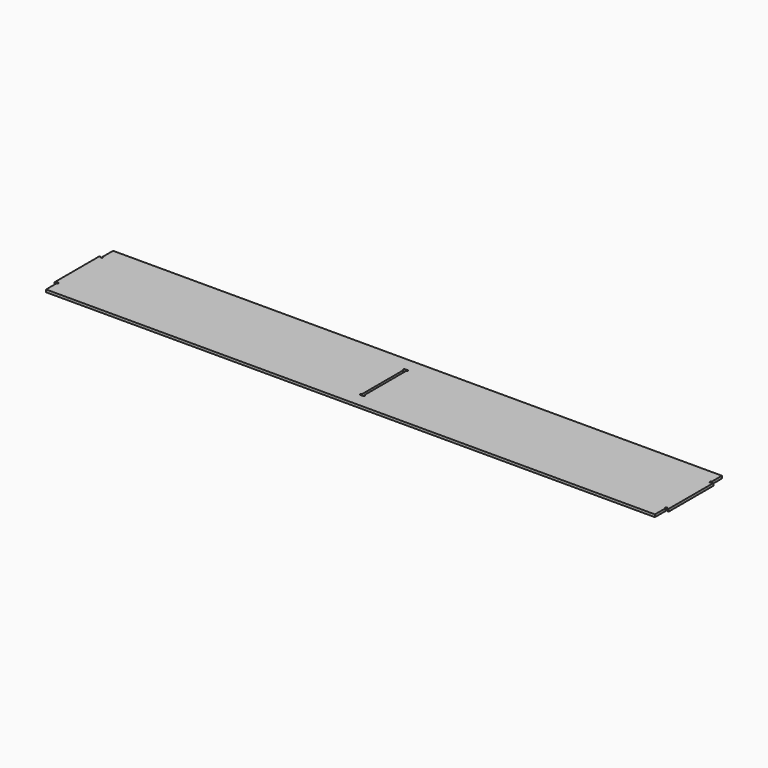
from build123d import *

# Parameters (mm, degrees)
F1_DEPTH = 9


with BuildPart() as f1:
    # F0 (on Top) → F1 (new body)
    with BuildSketch(Plane.XY):
        with BuildLine():
            Line((1090.859627, -105.795628), (-1090.859627, -105.795628))
            Line((-1090.859627, -105.795628), (-1090.859627, -152.295628))
            ThreePointArc((-1090.859627, -152.295628), (-1088.384754, -158.270502), (-1094.359627, -155.795628))
            Line((-1094.359627, -155.795628), (-1099.859627, -155.795628))
            Line((-1099.859627, -155.795628), (-1099.859627, -355.795628))
            Line((-1099.859627, -355.795628), (-1094.359627, -355.795628))
            ThreePointArc((-1094.359627, -355.795628), (-1093.334501, -353.320754), (-1090.859627, -352.295628))
            ThreePointArc((-1090.859627, -352.295628), (-1088.384754, -353.320754), (-1087.359627, -355.795628))
            ThreePointArc((-1087.359627, -355.795628), (-1088.384754, -358.270502), (-1090.859627, -359.295628))
            Line((-1090.859627, -359.295628), (-1090.859627, -405.795628))
            Line((-1090.859627, -405.795628), (1090.859627, -405.795628))
            Line((1090.859627, -405.795628), (1090.859627, -359.295628))
            ThreePointArc((1090.859627, -359.295628), (1088.384754, -358.270502), (1087.359627, -355.795628))
            ThreePointArc((1087.359627, -355.795628), (1088.384754, -353.320754), (1090.859627, -352.295628))
            ThreePointArc((1090.859627, -352.295628), (1093.334501, -353.320754), (1094.359627, -355.795628))
            Line((1094.359627, -355.795628), (1099.859627, -355.795628))
            Line((1099.859627, -355.795628), (1099.859627, -155.795628))
            Line((1099.859627, -155.795628), (1094.359627, -155.795628))
            ThreePointArc((1094.359627, -155.795628), (1088.384754, -158.270502), (1090.859627, -152.295628))
            Line((1090.859627, -152.295628), (1090.859627, -105.795628))
        make_face()
        with BuildLine():
            ThreePointArc((4.5, -155.795628), (8, -159.295628), (4.5, -162.795628))
            Line((4.5, -162.795628), (4.5, -255.795628))
            Line((4.5, -255.795628), (4.5, -348.795628))
            ThreePointArc((4.5, -348.795628), (8, -352.295628), (4.5, -355.795628))
            Line((4.5, -355.795628), (0, -355.795628))
            Line((0, -355.795628), (-4.5, -355.795628))
            ThreePointArc((-4.5, -355.795628), (-8, -352.295628), (-4.5, -348.795628))
            Line((-4.5, -348.795628), (-4.5, -255.795628))
            Line((-4.5, -255.795628), (-4.5, -162.795628))
            ThreePointArc((-4.5, -162.795628), (-8, -159.295628), (-4.5, -155.795628))
            Line((-4.5, -155.795628), (0, -155.795628))
            Line((0, -155.795628), (4.5, -155.795628))
        make_face(mode=Mode.SUBTRACT)
    extrude(amount=F1_DEPTH)


solid = f1.part
